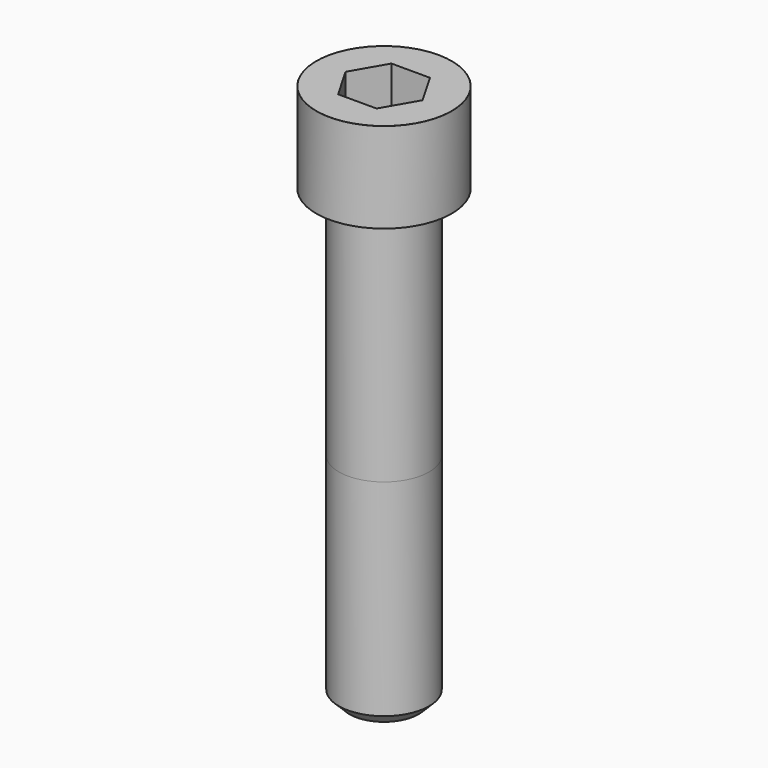
from build123d import *

# Parameters (mm, degrees)
POCKET_DEPTH = 22.15


with BuildPart() as part:
    # Sketch → Revolve (revolve)
    with BuildSketch(Plane.YZ):
        with BuildLine():
            Line((14.999, 0), (22.5, 0))
            Line((22.5, 0), (22.5, 29.97229))
            ThreePointArc((22.5, 29.97229), (22.491884, 29.991884), (22.47229, 30))
            Line((22.47229, 30), (0, 30))
            Line((0, -150), (0, 30))
            Line((11.5, -150), (0, -150))
            Line((15, -146.5), (11.5, -150))
            Line((15, -78), (15, -146.5))
            Line((14.999, 0), (15, -78))
        make_face()
    revolve(axis=Axis((0, 0, 0), (0, 0, 1)))

    # Sketch001 → Pocket (cut)
    with BuildSketch(Plane.XY.offset(30)):
        Polygon((12.788308, 0), (6.394154, 11.075), (-6.394154, 11.075), (-12.788308, 0), (-6.394154, -11.075), (6.394154, -11.075), align=None)
    extrude(amount=-POCKET_DEPTH, mode=Mode.SUBTRACT)


solid = part.part
